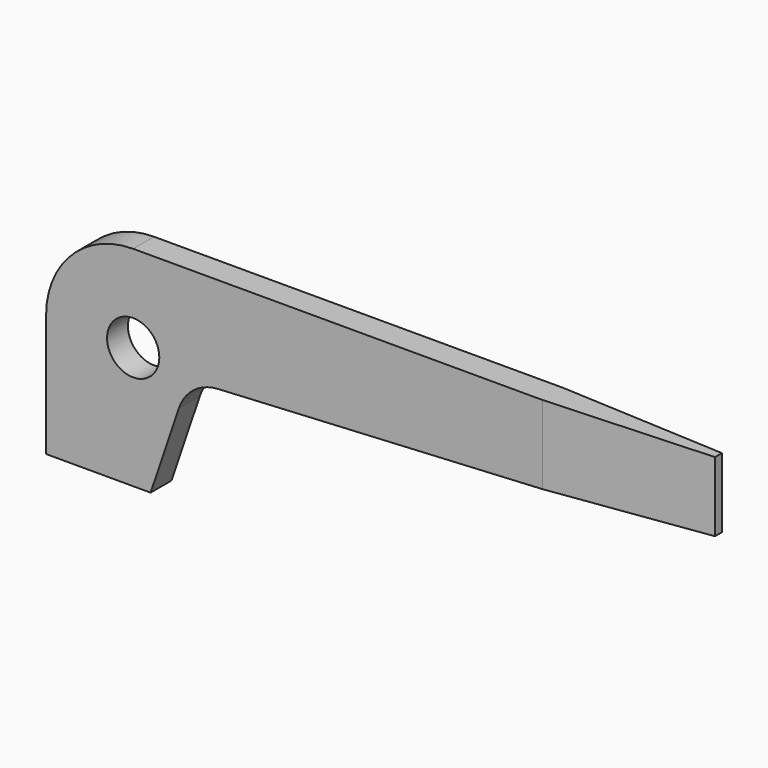
from build123d import *

# Parameters (mm, degrees)
F1_DEPTH = 2.38125
F2_R     = 2.38125
F3_DEPTH = 2.38225
F5_DEPTH = 25.4


with BuildPart() as f1:
    # F0 (on Front) → F1 (new body)
    with BuildSketch(Plane.XZ):
        with BuildLine():
            Line((60.325, 19.05), (7.9375, 19.05))
            ThreePointArc((7.9375, 19.05), (2.32484, 16.72516), (0, 11.1125))
            Line((0, 11.1125), (0, 0))
            Line((0, 0), (9.525, 0))
            Line((9.525, 0), (12.110345, 7.626242))
            ThreePointArc((12.110345, 7.626242), (13.473756, 9.517878), (15.663421, 10.319465))
            Line((15.663421, 10.319465), (60.325, 12.7))
            Line((60.325, 12.7), (60.325, 19.05))
        make_face()
    extrude(amount=F1_DEPTH)

    # F2 (on face) → F3 (cut, through all)
    with BuildSketch(Plane.XZ.offset(2.38125)):
        with Locations((7.9375, 11.1125)):
            Circle(F2_R)
    extrude(amount=-F3_DEPTH, mode=Mode.SUBTRACT)

    # F4 (on face) → F5 (cut)
    with BuildSketch(Plane.XY.offset(19.05)):
        Polygon((60.325, 0), (45.24375, 0), (60.325, -0.79375), align=None)
        Polygon((60.325, -2.38125), (60.325, -1.5875), (45.24375, -2.38125), align=None)
    extrude(amount=-F5_DEPTH, mode=Mode.SUBTRACT)


solid = f1.part
